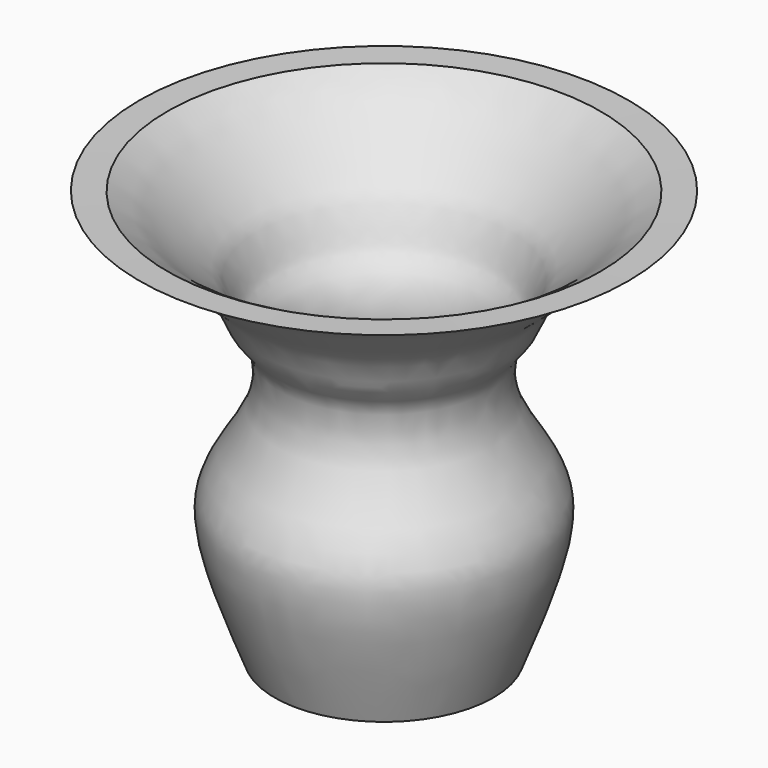
from build123d import *

# Parameters (mm, degrees)
F2_T = -2.54


with BuildPart() as f1:
    # F0 (on Front) → F1 (revolve)
    with BuildSketch(Plane.XZ):
        with BuildLine():
            Line((0, 0), (24.5087426156, 0))
            add(Edge.make_bspline(
                [(24.5087426156, 0), (27.2689078508, 7.1307010383), (32.0899141207, 19.5854461298), (34.0854866097, 32.3025689654), (28.9486597088, 41.1982763166), (22.7438128901, 50.3325714543), (22.5115618539, 61.8432925321), (27.9975075077, 66.1610592204), (29.6064711659, 74.1389462837), (38.773973491, 80.748677704), (45.9953734926, 88.1271850299), (51.912663984, 90.7696510033), (54.7959767282, 92.0572429895)],
                knots=[0, 0, 0, 0, 0.1421811969, 0.2483389158, 0.343380556, 0.4460085173, 0.5445904484, 0.6214673084, 0.705269291, 0.8068139032, 0.9058663867, 1, 1, 1, 1], degree=3))
            Line((54.7959767282, 92.0572429895), (0, 90.7696510033))
            Line((0, 90.7696510033), (0, 0))
        make_face()
    revolve(axis=Axis((0, 0, 1.3948082924), (0, 0, -1)))

    # F2
    f2_openings = [f1.faces().sort_by_distance(p)[0] for p in [
        (-27.397988, 0, 91.413447),
    ]]
    offset(amount=F2_T, openings=f2_openings)


solid = f1.part
